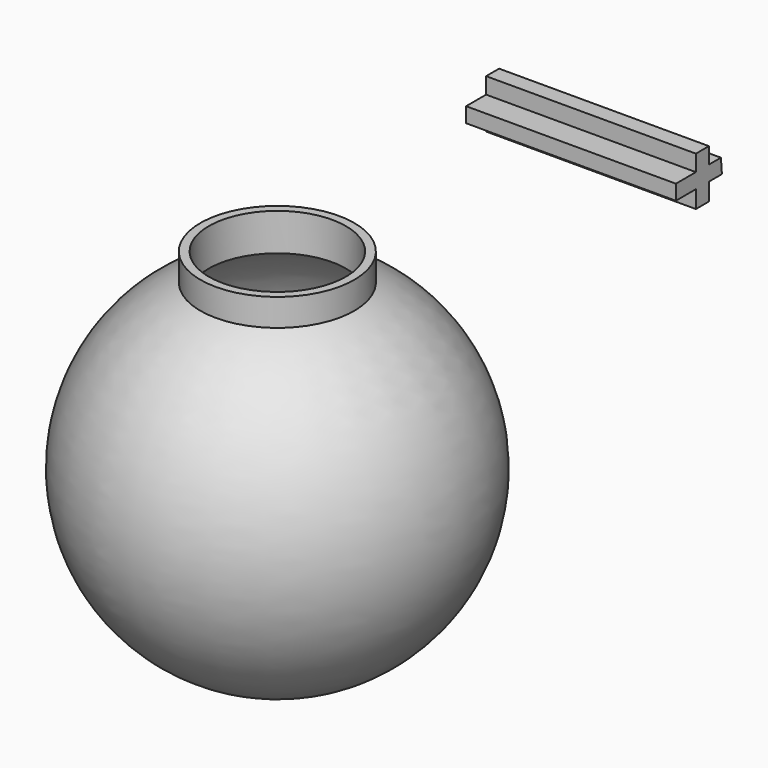
from build123d import *

# Parameters (mm, degrees)
F4_DEPTH = 50


with BuildPart() as f2:
    # F0 (on Right) → F2 (revolve)
    with BuildSketch(Plane.YZ):
        with BuildLine():
            Line((-18.345172, 37.129864), (-18.345172, 30.625704))
            ThreePointArc((-18.345172, 30.625704), (-42.034842, -17.73619), (0, -51.398414))
            Line((0, -51.398414), (0, -49.298416))
            ThreePointArc((0, -49.298416), (-39.857745, -17.830915), (-18.470995, 28.22829))
            Line((-18.470995, 28.22829), (-16.345172, 28.22829))
            Line((-16.345172, 28.22829), (-16.345172, 37.129864))
            Line((-16.345172, 37.129864), (-18.345172, 37.129864))
        make_face()
    revolve(axis=Axis((0, 0, -5.865626), (0, 0, 1)))


with BuildPart() as f4:
    # F3 (on Right) → F4 (new body)
    with BuildSketch(Plane.YZ):
        Polygon((69.950283, 41.164774), (69.651991, 44.74432), (66.072449, 44.74432), (66.072449, 48.622161), (62.194604, 48.622161), (62.194604, 44.74432), (56.228694, 44.74432), (56.228694, 41.164774), (62.194604, 41.164774), (62.194604, 36.988638), (66.072449, 36.988638), (66.072449, 41.164774), align=None)
    extrude(amount=F4_DEPTH)


solid = Compound([f2.part, f4.part])
